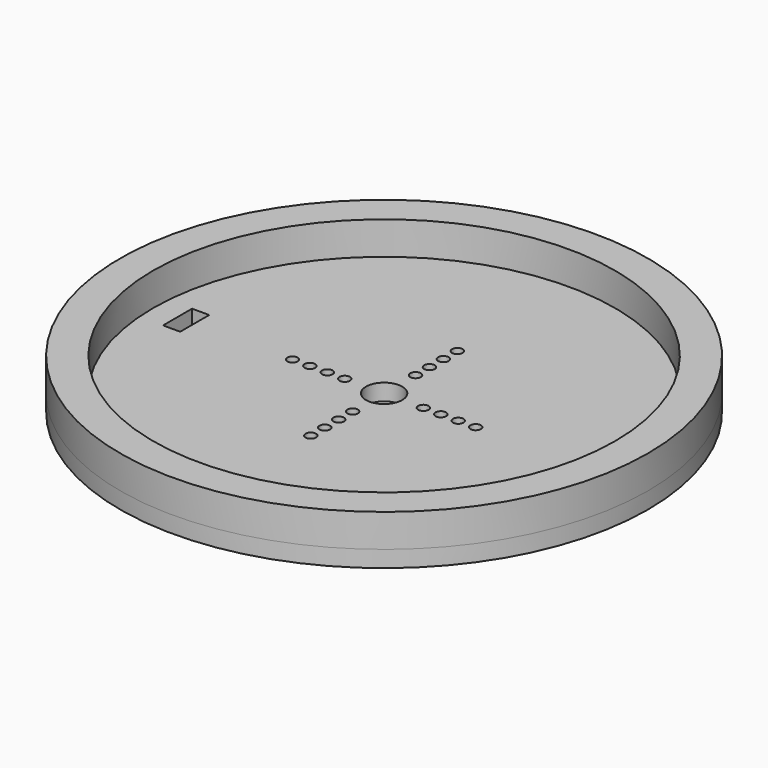
from build123d import *

# Parameters (mm, degrees)
F0_R     = 50.8
F0_W     = 3.302
F0_H     = 6.985
F0_R_2   = 1.016
F0_R_3   = 3.4925
F1_DEPTH = 3.175
F2_R     = 50.8
F2_R_2   = 44.45
F3_DEPTH = 6.35


with BuildPart() as f1:
    # F0 (on Top) → F1 (new body)
    with BuildSketch(Plane.XY):
        Circle(F0_R)
        with Locations((-38.1, 0)):
            Rectangle(F0_W, F0_H, mode=Mode.SUBTRACT)
        with Locations((0, -17.6276)):
            Circle(F0_R_2, mode=Mode.SUBTRACT)
        with Locations((0, -14.2748)):
            Circle(F0_R_2, mode=Mode.SUBTRACT)
        with Locations((-17.6276, 0)):
            Circle(F0_R_2, mode=Mode.SUBTRACT)
        with Locations((-14.2748, 0)):
            Circle(F0_R_2, mode=Mode.SUBTRACT)
        with Locations((0, -10.922)):
            Circle(F0_R_2, mode=Mode.SUBTRACT)
        with Locations((0, -7.5692)):
            Circle(F0_R_2, mode=Mode.SUBTRACT)
        with Locations((-10.922, 0)):
            Circle(F0_R_2, mode=Mode.SUBTRACT)
        with Locations((-7.5692, 0)):
            Circle(F0_R_2, mode=Mode.SUBTRACT)
        Circle(F0_R_3, mode=Mode.SUBTRACT)
        with Locations((7.5692, 0)):
            Circle(F0_R_2, mode=Mode.SUBTRACT)
        with Locations((10.922, 0)):
            Circle(F0_R_2, mode=Mode.SUBTRACT)
        with Locations((14.2748, 0)):
            Circle(F0_R_2, mode=Mode.SUBTRACT)
        with Locations((17.6276, 0)):
            Circle(F0_R_2, mode=Mode.SUBTRACT)
        with Locations((38.1, 0)):
            Rectangle(F0_W, F0_H, mode=Mode.SUBTRACT)
        with Locations((0, 7.5692)):
            Circle(F0_R_2, mode=Mode.SUBTRACT)
        with Locations((0, 10.922)):
            Circle(F0_R_2, mode=Mode.SUBTRACT)
        with Locations((0, 14.2748)):
            Circle(F0_R_2, mode=Mode.SUBTRACT)
        with Locations((0, 17.6276)):
            Circle(F0_R_2, mode=Mode.SUBTRACT)
    extrude(amount=F1_DEPTH)


with BuildPart() as f3:
    # F2 (on face) → F3 (new body)
    with BuildSketch(Plane.XY.offset(3.175)):
        Circle(F2_R)
        Circle(F2_R_2, mode=Mode.SUBTRACT)
    extrude(amount=F3_DEPTH)


solid = Compound([f1.part, f3.part])
